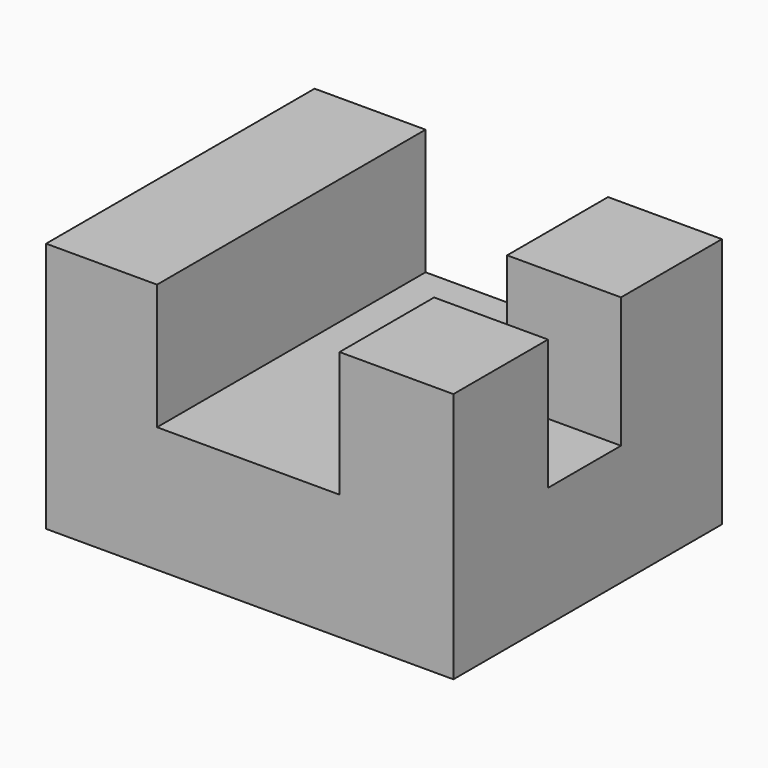
from build123d import *

# Parameters (mm, degrees)
F1_DEPTH = 65.278
F2_W     = 22.147088
F2_H     = 17.75202
F3_DEPTH = 25.4


with BuildPart() as f1:
    # F0 (on Front) → F1 (new body)
    with BuildSketch(Plane.XZ):
        Polygon((-18.030003, 24.418592), (-39.609224, 24.418592), (-39.609224, -24.418592), (39.609224, -24.418592), (39.609224, 24.418592), (17.462136, 24.418592), (17.462136, 0), (-11.215512, 0), (-18.030003, 0), align=None)
    extrude(amount=F1_DEPTH)

    # F2 (on face) → F3 (cut)
    with BuildSketch(Plane.XY.offset(24.418592)):
        with Locations((28.53568, -33.411176)):
            Rectangle(F2_W, F2_H)
    extrude(amount=-F3_DEPTH, mode=Mode.SUBTRACT)


solid = f1.part
